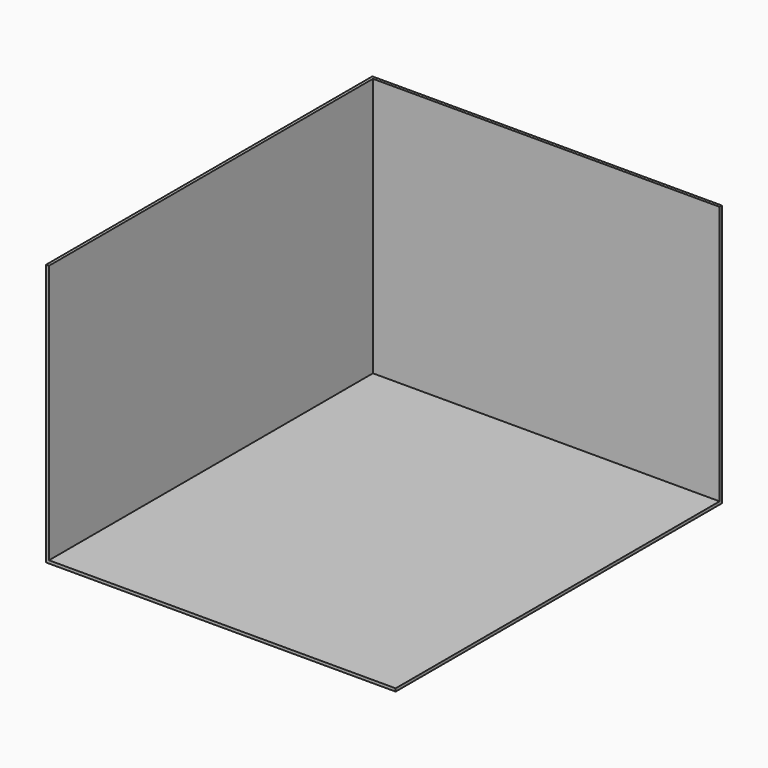
from build123d import *

# Parameters (mm, degrees)
F0_W     = 304.8
F0_H     = 355.6
F1_DEPTH = 228.6
F2_T     = -2.54


with BuildPart() as f1:
    # F0 (on Top) → F1 (new body)
    with BuildSketch(Plane.XY):
        with Locations((152.4, -177.8)):
            Rectangle(F0_W, F0_H)
    extrude(amount=F1_DEPTH)

    # F2
    f2_openings = [f1.faces().sort_by_distance(p)[0] for p in [
        (152.4, -177.8, 228.6),
        (152.4, -355.6, 114.3),
        (304.8, -177.8, 114.3),
    ]]
    offset(amount=F2_T, openings=f2_openings)


solid = f1.part
